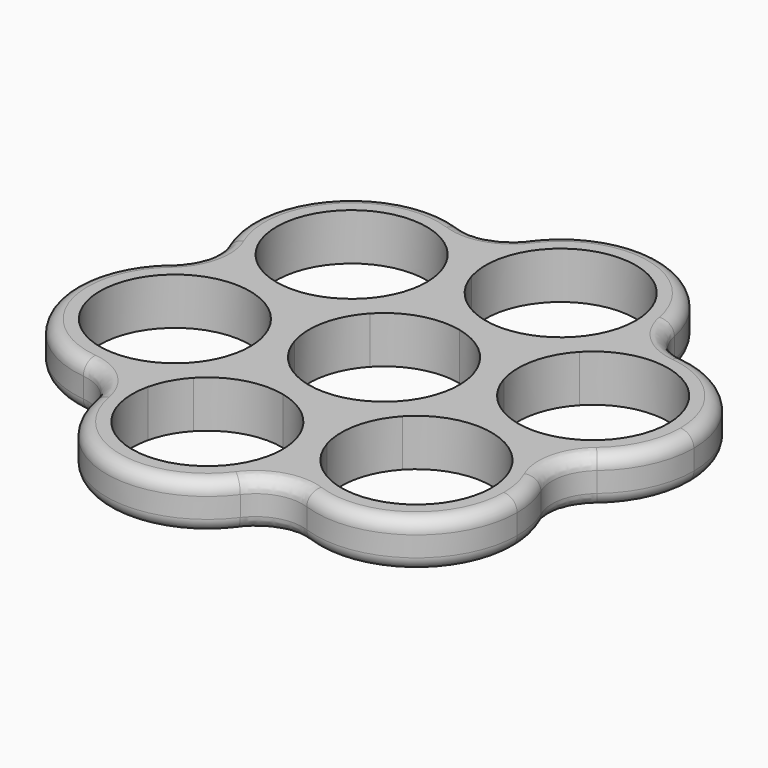
from build123d import *

# Parameters (mm, degrees)
F1_DEPTH = 7.0000002161
F2_R     = 7
F3_R     = 2


with BuildPart() as f1:
    # F0 (on Top) → F1 (new body)
    with BuildSketch(Plane.XY):
        with BuildLine():
            ThreePointArc((-8.4351326883, 21.1270953256), (-9.0738701421, 24.8916615747), (-8.7414061831, 28.6955296448))
            ThreePointArc((-8.7414061831, 28.6955296448), (-8.8125213083, 28.7633007882), (-8.8840787432, 28.8306047437))
            Line((-8.8840787432, 28.8306047437), (-11.4955479594, 26.0358143163))
            ThreePointArc((-11.4955479594, 26.0358143163), (-9.6422177606, 23.7829104816), (-8.4351326883, 21.1270953256))
        make_face()
        with BuildLine():
            ThreePointArc((-26.7547210267, 9.7054702506), (-27.2903065259, 25.5002288171), (-11.4955479594, 26.0358143163))
            Line((-11.4955479594, 26.0358143163), (-8.8840787432, 28.8306047437))
            ThreePointArc((-8.8840787432, 28.8306047437), (-30.0850969532, 28.1116980333), (-29.3661902429, 6.9106798233))
            Line((-29.3661902429, 6.9106798233), (-26.7547210267, 9.7054702506))
        make_face()
        with BuildLine():
            ThreePointArc((-29.221760739, 6.777485003), (-25.4491514925, 7.3668602267), (-21.6499643665, 6.9846026404))
            ThreePointArc((-21.6499643665, 6.9846026404), (-24.3814472006, 8.0090094714), (-26.7547210267, 9.7054702506))
            Line((-26.7547210267, 9.7054702506), (-29.3661902429, 6.9106798233))
            ThreePointArc((-29.3661902429, 6.9106798233), (-29.2941935673, 6.8438459426), (-29.221760739, 6.777485003))
        make_face()
        with BuildLine():
            ThreePointArc((20.4803545559, 21.9180446418), (19.1044639174, 18.3561817107), (16.873825702, 15.2571180229))
            ThreePointArc((16.873825702, 15.2571180229), (19.126729384, 17.1104479973), (21.782544306, 18.3175329549))
            Line((21.782544306, 18.3175329549), (20.6679194058, 21.976526851))
            ThreePointArc((20.6679194058, 21.976526851), (20.5740412295, 21.9475928414), (20.4803545559, 21.9180446418))
        make_face()
        with BuildLine():
            ThreePointArc((28.2954505858, -3.0624705949), (25.417713525, -3.5410497115), (22.5141675883, -3.2585084667))
            ThreePointArc((22.5141675883, -3.2585084667), (26.0937463299, -4.5876287298), (29.221760739, -6.777485003))
            ThreePointArc((29.221760739, -6.777485003), (29.3160098334, -6.7497830698), (29.4100754861, -6.721464491))
            Line((29.4100754861, -6.721464491), (28.2954505858, -3.0624705949))
        make_face()
        with BuildLine():
            Line((20.6679194058, 21.976526851), (21.782544306, 18.3175329549))
            ThreePointArc((21.782544306, 18.3175329549), (31.6906799835, 16.6072719569), (36.2139974459, 7.62753118))
            ThreePointArc((36.2139974459, 7.62753118), (34.0187382228, 0.9758486424), (28.2954505858, -3.0624705949))
            Line((28.2954505858, -3.0624705949), (29.4100754861, -6.721464491))
            ThreePointArc((29.4100754861, -6.721464491), (37.0923407706, -1.3009017563), (40.0389974459, 7.62753118))
            ThreePointArc((40.0389974459, 7.62753118), (33.9674303823, 19.6808745046), (20.6679194058, 21.976526851))
        make_face()
        with BuildLine():
            ThreePointArc((-16.7999026264, -22.9733437214), (-15.7754958852, -20.2418609814), (-14.0790352427, -17.8685872048))
            ThreePointArc((-14.0790352427, -17.8685872048), (-17.0198763972, -20.304032969), (-20.4803545559, -21.9180446418))
            ThreePointArc((-20.4803545559, -21.9180446418), (-20.5034885252, -22.0135177185), (-20.5259967429, -22.1091402527))
            Line((-20.5259967429, -22.1091402527), (-16.7999026264, -22.9733437214))
        make_face()
        with BuildLine():
            Line((8.6982708371, -28.8872066743), (4.9721767206, -28.0230032056))
            ThreePointArc((4.9721767206, -28.0230032056), (-8.438692695, -36.384213137), (-16.7999026264, -22.9733437214))
            Line((-16.7999026264, -22.9733437214), (-20.5259967429, -22.1091402527))
            ThreePointArc((-20.5259967429, -22.1091402527), (-9.3028961638, -40.1103072535), (8.6982708371, -28.8872066743))
        make_face()
        with BuildLine():
            ThreePointArc((8.7414061831, -28.6955296448), (6.3446876438, -25.7230418106), (4.7761388613, -22.2417204526))
            ThreePointArc((4.7761388613, -22.2417204526), (5.1392224822, -23.8519877622), (5.2611370471, -25.4981734635))
            ThreePointArc((5.2611370471, -25.4981734635), (5.188661948, -26.7688291305), (4.9721767206, -28.0230032056))
            Line((4.9721767206, -28.0230032056), (8.6982708371, -28.8872066743))
            ThreePointArc((8.6982708371, -28.8872066743), (8.7201523378, -28.7914387839), (8.7414061831, -28.6955296448))
        make_face()
        with BuildLine():
            ThreePointArc((-8.7414061831, 28.6955296448), (-6.3446876395, 25.7230418037), (-4.7761388565, 22.241720437))
            ThreePointArc((-4.7761388565, 22.241720437), (4.2676772436, 36.5512588974), (17.0888629529, 25.4981734635))
            ThreePointArc((17.0888629529, 25.4981734635), (16.309208527, 21.3972692467), (14.0790346942, 17.8685866178))
            ThreePointArc((14.0790346942, 17.8685866178), (17.0198760578, 20.3040327543), (20.4803545559, 21.9180446418))
            ThreePointArc((20.4803545559, 21.9180446418), (20.8050914792, 23.6950337081), (20.9138629529, 25.4981734635))
            ThreePointArc((20.9138629529, 25.4981734635), (7.5218061981, 40.4117417327), (-8.7414061831, 28.6955296448))
        make_face()
        with BuildLine():
            ThreePointArc((-16.8738251198, -15.2571173998), (-35.7289991793, -10.8839844564), (-22.5141675633, 3.2585084609))
            ThreePointArc((-22.5141675633, 3.2585084609), (-26.0937463186, 4.5876287238), (-29.221760739, 6.777485003))
            ThreePointArc((-29.221760739, 6.777485003), (-39.387993117, -11.9986092201), (-20.4803545559, -21.9180446418))
            ThreePointArc((-20.4803545559, -21.9180446418), (-19.1044637144, -18.3561813358), (-16.8738251198, -15.2571173998))
        make_face()
        with BuildLine():
            ThreePointArc((29.221760739, -6.777485003), (25.4491514951, -7.3668602266), (21.6499643715, -6.9846026416))
            ThreePointArc((21.6499643715, -6.9846026416), (27.874294421, -10.9184609312), (30.300134493, -17.8706422835))
            ThreePointArc((30.300134493, -17.8706422835), (20.7713202626, -28.9237277084), (8.4351327191, -21.1270954265))
            ThreePointArc((8.4351327191, -21.1270954265), (8.9224933228, -23.288528139), (9.0861370471, -25.4981734635))
            ThreePointArc((9.0861370471, -25.4981734635), (8.9997053163, -27.1061167087), (8.7414061831, -28.6955296448))
            ThreePointArc((8.7414061831, -28.6955296448), (25.0091839214, -31.6683943585), (34.125134493, -17.8706422835))
            ThreePointArc((34.125134493, -17.8706422835), (32.8446350978, -11.806377847), (29.221760739, -6.777485003))
        make_face()
        with BuildLine():
            ThreePointArc((-4.125134493, 17.8706422835), (-4.2887782263, 20.0802876682), (-4.7761388565, 22.241720437))
            ThreePointArc((-4.7761388565, 22.241720437), (-6.3446876395, 25.7230418037), (-8.7414061831, 28.6955296448))
            ThreePointArc((-8.7414061831, 28.6955296448), (-9.0738701421, 24.8916615747), (-8.4351326883, 21.1270953256))
            ThreePointArc((-8.4351326883, 21.1270953256), (-6.8665839048, 17.6457739502), (-4.469865357, 14.6732861021))
            ThreePointArc((-4.469865357, 14.6732861021), (-4.2115662238, 16.2626990383), (-4.125134493, 17.8706422835))
        make_face()
        with BuildLine():
            ThreePointArc((-14.9423711999, 3.4656261004), (-18.0703856163, 5.6554823774), (-21.6499643665, 6.9846026404))
            ThreePointArc((-21.6499643665, 6.9846026404), (-25.4491514925, 7.3668602267), (-29.221760739, 6.777485003))
            ThreePointArc((-29.221760739, 6.777485003), (-26.0937463186, 4.5876287238), (-22.5141675633, 3.2585084609))
            ThreePointArc((-22.5141675633, 3.2585084609), (-18.7149804417, 2.8762508769), (-14.9423711999, 3.4656261004))
        make_face()
        with BuildLine():
            ThreePointArc((10.4725058429, 11.2076600017), (13.9329843395, 12.8216718882), (16.873825702, 15.2571180229))
            ThreePointArc((16.873825702, 15.2571180229), (19.1044639174, 18.3561817107), (20.4803545559, 21.9180446418))
            ThreePointArc((20.4803545559, 21.9180446418), (17.0198760578, 20.3040327543), (14.0790346942, 17.8685866178))
            ThreePointArc((14.0790346942, 17.8685866178), (11.8483964806, 14.7695229311), (10.4725058429, 11.2076600017))
        make_face()
        with BuildLine():
            ThreePointArc((29.221760739, -6.777485003), (26.0937463299, -4.5876287298), (22.5141675883, -3.2585084667))
            ThreePointArc((22.5141675883, -3.2585084667), (18.7149804545, -2.8762508765), (14.9423711999, -3.4656261004))
            ThreePointArc((14.9423711999, -3.4656261004), (18.0703856185, -5.6554823786), (21.6499643715, -6.9846026416))
            ThreePointArc((21.6499643715, -6.9846026416), (25.4491514951, -7.3668602266), (29.221760739, -6.777485003))
        make_face()
        with BuildLine():
            ThreePointArc((9.0861370471, -25.4981734635), (8.9224933228, -23.288528139), (8.4351327191, -21.1270954265))
            ThreePointArc((8.4351327191, -21.1270954265), (6.8665839325, -17.6457739952), (4.469865357, -14.6732861021))
            ThreePointArc((4.469865357, -14.6732861021), (4.1374013986, -18.4771541885), (4.7761388613, -22.2417204526))
            ThreePointArc((4.7761388613, -22.2417204526), (6.3446876438, -25.7230418106), (8.7414061831, -28.6955296448))
            ThreePointArc((8.7414061831, -28.6955296448), (8.9997053163, -27.1061167087), (9.0861370471, -25.4981734635))
        make_face()
        with BuildLine():
            ThreePointArc((-20.4803545559, -21.9180446418), (-17.0198763972, -20.304032969), (-14.0790352427, -17.8685872048))
            ThreePointArc((-14.0790352427, -17.8685872048), (-11.8483966718, -14.7695232843), (-10.4725058429, -11.2076600017))
            ThreePointArc((-10.4725058429, -11.2076600017), (-13.9329839791, -12.8216716603), (-16.8738251198, -15.2571173998))
            ThreePointArc((-16.8738251198, -15.2571173998), (-19.1044637144, -18.3561813358), (-20.4803545559, -21.9180446418))
        make_face()
        with BuildLine():
            ThreePointArc((-7.950134493, 17.8706422835), (-8.7297888391, 13.7697382691), (-10.9599624546, 10.2410557558))
            ThreePointArc((-10.9599624546, 10.2410557558), (-8.0191212043, 12.6765016906), (-4.55864289, 14.2905134618))
            ThreePointArc((-4.55864289, 14.2905134618), (-4.5130007031, 14.4816090726), (-4.469865357, 14.6732861021))
            ThreePointArc((-4.469865357, 14.6732861021), (-6.8665839048, 17.6457739502), (-8.4351326883, 21.1270953256))
            ThreePointArc((-8.4351326883, 21.1270953256), (-8.0720490603, 19.5168280009), (-7.950134493, 17.8706422835))
        make_face()
        with BuildLine():
            ThreePointArc((-14.566491603, 3.5801288217), (-11.106013295, 5.1941405889), (-8.1651720485, 7.6295865169))
            Line((-8.1651720328, 7.6295865336), (-10.9599624602, 10.2410557498))
            ThreePointArc((-10.9599624546, 10.2410557558), (-13.1906008618, 7.1419919424), (-14.566491603, 3.5801288217))
        make_face()
        with BuildLine():
            ThreePointArc((-14.566491603, 3.5801288217), (-13.1906008618, 7.1419919424), (-10.9599624546, 10.2410557558))
            ThreePointArc((-10.9599624546, 10.2410557558), (-15.8686814137, 7.1806404901), (-21.6499643665, 6.9846026404))
            ThreePointArc((-21.6499643665, 6.9846026404), (-18.0703856163, 5.6554823774), (-14.9423711999, 3.4656261004))
            ThreePointArc((-14.9423711999, 3.4656261004), (-14.7540564529, 3.5216466124), (-14.566491603, 3.5801288217))
        make_face()
        with BuildLine():
            Line((-10.9599624602, 10.2410557498), (-8.1651720328, 7.6295865336))
            ThreePointArc((-8.1651720485, 7.6295865169), (-5.9345336348, 10.7286503345), (-4.55864289, 14.2905134618))
            ThreePointArc((-4.55864289, 14.2905134618), (-8.0191212043, 12.6765016906), (-10.9599624546, 10.2410557558))
        make_face()
        with BuildLine():
            ThreePointArc((-4.1827632931, 14.4050161831), (-0.4101539781, 14.9943914086), (3.3890332129, 14.6121337895))
            ThreePointArc((3.3890332129, 14.6121337895), (-1.7157236232, 17.3330014704), (-4.7761388565, 22.241720437))
            ThreePointArc((-4.7761388565, 22.241720437), (-4.2887782263, 20.0802876682), (-4.125134493, 17.8706422835))
            ThreePointArc((-4.125134493, 17.8706422835), (-4.2115662238, 16.2626990383), (-4.469865357, 14.6732861021))
            ThreePointArc((-4.469865357, 14.6732861021), (-4.3271927969, 14.5382110033), (-4.1827632931, 14.4050161831))
        make_face()
        with BuildLine():
            ThreePointArc((-4.1827632931, 14.4050161831), (-1.0547489214, 12.2151599295), (2.5248297753, 10.8860396658))
            Line((2.5248297421, 10.8860396735), (3.3890332108, 14.61213379))
            ThreePointArc((3.3890332129, 14.6121337895), (-0.4101539781, 14.9943914086), (-4.1827632931, 14.4050161831))
        make_face()
        with BuildLine():
            Line((3.3890332108, 14.61213379), (2.5248297421, 10.8860396735))
            ThreePointArc((2.5248297753, 10.8860396658), (6.3240169491, 10.5037820554), (10.096626246, 11.0931572804))
            ThreePointArc((10.096626246, 11.0931572804), (6.9686118904, 13.2830135256), (3.3890332129, 14.6121337895))
        make_face()
        with BuildLine():
            ThreePointArc((14.0790346942, 17.8685866178), (9.1703158896, 14.8081716267), (3.3890332129, 14.6121337895))
            ThreePointArc((3.3890332129, 14.6121337895), (6.9686118904, 13.2830135256), (10.096626246, 11.0931572804))
            ThreePointArc((10.096626246, 11.0931572804), (10.284940993, 11.1491777925), (10.4725058429, 11.2076600017))
            ThreePointArc((10.4725058429, 11.2076600017), (11.8483964806, 14.7695229311), (14.0790346942, 17.8685866178))
        make_face()
        with BuildLine():
            ThreePointArc((10.3837283099, 10.8248873614), (12.7804468788, 7.8523994791), (14.3489956646, 4.3710780611))
            ThreePointArc((14.3489956646, 4.3710780611), (14.1529578227, 10.1523611389), (16.873825702, 15.2571180229))
            ThreePointArc((16.873825702, 15.2571180229), (13.9329843395, 12.8216718882), (10.4725058429, 11.2076600017))
            ThreePointArc((10.4725058429, 11.2076600017), (10.426863656, 11.0165643909), (10.3837283099, 10.8248873614))
        make_face()
        with BuildLine():
            ThreePointArc((10.3837283099, 10.8248873614), (10.0512643488, 7.0210193435), (10.6900017742, 3.2564531422))
            Line((10.6900017749, 3.2564531399), (14.348995671, 4.3710780401))
            ThreePointArc((14.3489956646, 4.3710780611), (12.7804468788, 7.8523994791), (10.3837283099, 10.8248873614))
        make_face()
        with BuildLine():
            Line((14.348995671, 4.3710780401), (10.6900017749, 3.2564531399))
            ThreePointArc((10.6900017742, 3.2564531422), (12.2585505608, -0.2248682887), (14.655269136, -3.1973561813))
            ThreePointArc((14.655269136, -3.1973561813), (14.9135682692, -1.6079432452), (15, 0))
            ThreePointArc((15, 0), (14.8363562739, 2.209645337), (14.3489956646, 4.3710780611))
        make_face()
        with BuildLine():
            ThreePointArc((22.5141675883, -3.2585084667), (17.409410861, -0.5376408048), (14.3489956646, 4.3710780611))
            ThreePointArc((14.3489956646, 4.3710780611), (14.8363562739, 2.209645337), (15, 0))
            ThreePointArc((15, 0), (14.9135682692, -1.6079432452), (14.655269136, -3.1973561813))
            ThreePointArc((14.655269136, -3.1973561813), (14.7979416961, -3.3324312802), (14.9423711999, -3.4656261004))
            ThreePointArc((14.9423711999, -3.4656261004), (18.7149804545, -2.8762508765), (22.5141675883, -3.2585084667))
        make_face()
        with BuildLine():
            ThreePointArc((-10.690001784, -3.2564531102), (-10.8860396726, 2.524829746), (-8.1651720485, 7.6295865169))
            ThreePointArc((-8.1651720485, 7.6295865169), (-11.106013295, 5.1941405889), (-14.566491603, 3.5801288217))
            ThreePointArc((-14.566491603, 3.5801288217), (-14.61213379, 3.3890332108), (-14.655269136, 3.1973561813))
            ThreePointArc((-14.655269136, 3.1973561813), (-12.2585505696, 0.2248683029), (-10.690001784, -3.2564531102))
        make_face()
        with BuildLine():
            ThreePointArc((-22.5141675633, 3.2585084609), (-17.4094108622, 0.537640806), (-14.3489956731, -4.3710780333))
            ThreePointArc((-14.3489956731, -4.3710780333), (-14.9877330973, -0.6065118342), (-14.655269136, 3.1973561813))
            ThreePointArc((-14.655269136, 3.1973561813), (-14.7979416961, 3.3324312802), (-14.9423711999, 3.4656261004))
            ThreePointArc((-14.9423711999, 3.4656261004), (-18.7149804417, 2.8762508769), (-22.5141675633, 3.2585084609))
        make_face()
        with BuildLine():
            Line((-14.348995671, -4.3710780401), (-10.6900017749, -3.2564531399))
            ThreePointArc((-10.690001784, -3.2564531102), (-12.2585505696, 0.2248683029), (-14.655269136, 3.1973561813))
            ThreePointArc((-14.655269136, 3.1973561813), (-14.9877330973, -0.6065118342), (-14.3489956731, -4.3710780333))
        make_face()
        with BuildLine():
            ThreePointArc((-10.0389974459, -7.62753118), (-10.2026411728, -5.4178858385), (-10.690001784, -3.2564531102))
            Line((-10.6900017749, -3.2564531399), (-14.348995671, -4.3710780401))
            ThreePointArc((-14.3489956731, -4.3710780333), (-12.7804468864, -7.8523994667), (-10.3837283099, -10.8248873614))
            ThreePointArc((-10.3837283099, -10.8248873614), (-10.1254291767, -9.2354744252), (-10.0389974459, -7.62753118))
        make_face()
        with BuildLine():
            ThreePointArc((-10.3837283099, -10.8248873614), (-12.7804468864, -7.8523994667), (-14.3489956731, -4.3710780333))
            ThreePointArc((-14.3489956731, -4.3710780333), (-13.9859120212, -5.9813454085), (-13.8639974459, -7.62753118))
            ThreePointArc((-13.8639974459, -7.62753118), (-14.6436517147, -11.7284349984), (-16.8738251198, -15.2571173998))
            ThreePointArc((-16.8738251198, -15.2571173998), (-13.9329839791, -12.8216716603), (-10.4725058429, -11.2076600017))
            ThreePointArc((-10.4725058429, -11.2076600017), (-10.426863656, -11.0165643909), (-10.3837283099, -10.8248873614))
        make_face()
        with BuildLine():
            ThreePointArc((-10.096626246, -11.0931572804), (-6.3240169573, -10.5037820556), (-2.5248297912, -10.8860396621))
            ThreePointArc((-2.5248297912, -10.8860396621), (-7.6295865634, -8.165172005), (-10.690001784, -3.2564531102))
            ThreePointArc((-10.690001784, -3.2564531102), (-10.2026411728, -5.4178858385), (-10.0389974459, -7.62753118))
            ThreePointArc((-10.0389974459, -7.62753118), (-10.1254291767, -9.2354744252), (-10.3837283099, -10.8248873614))
            ThreePointArc((-10.3837283099, -10.8248873614), (-10.2410557498, -10.9599624602), (-10.096626246, -11.0931572804))
        make_face()
        with BuildLine():
            Line((-3.3890332108, -14.61213379), (-2.5248297421, -10.8860396735))
            ThreePointArc((-2.5248297912, -10.8860396621), (-6.3240169573, -10.5037820556), (-10.096626246, -11.0931572804))
            ThreePointArc((-10.096626246, -11.0931572804), (-6.96861186, -13.2830135415), (-3.3890331462, -14.612133805))
        make_face()
        with BuildLine():
            ThreePointArc((-14.0790352427, -17.8685872048), (-9.1703162411, -14.8081717337), (-3.3890331462, -14.612133805))
            ThreePointArc((-3.3890331462, -14.612133805), (-6.96861186, -13.2830135415), (-10.096626246, -11.0931572804))
            ThreePointArc((-10.096626246, -11.0931572804), (-10.284940993, -11.1491777925), (-10.4725058429, -11.2076600017))
            ThreePointArc((-10.4725058429, -11.2076600017), (-11.8483966718, -14.7695232843), (-14.0790352427, -17.8685872048))
        make_face()
        with BuildLine():
            ThreePointArc((4.1827632931, -14.4050161831), (1.0547489142, -12.2151599257), (-2.5248297912, -10.8860396621))
            Line((-2.5248297421, -10.8860396735), (-3.3890332108, -14.61213379))
            ThreePointArc((-3.3890331462, -14.612133805), (0.4101540124, -14.9943914077), (4.1827632931, -14.4050161831))
        make_face()
        with BuildLine():
            ThreePointArc((4.1827632931, -14.4050161831), (0.4101540124, -14.9943914077), (-3.3890331462, -14.612133805))
            ThreePointArc((-3.3890331462, -14.612133805), (1.7157236542, -17.3330014993), (4.7761388613, -22.2417204526))
            ThreePointArc((4.7761388613, -22.2417204526), (4.1374013986, -18.4771541885), (4.469865357, -14.6732861021))
            ThreePointArc((4.469865357, -14.6732861021), (4.3271927969, -14.5382110033), (4.1827632931, -14.4050161831))
        make_face()
        with BuildLine():
            ThreePointArc((4.55864289, -14.2905134618), (5.934533619, -10.7286503637), (8.1651720032, -7.6295865653))
            ThreePointArc((8.1651720032, -7.6295865653), (3.256453095, -10.6900017886), (-2.5248297912, -10.8860396621))
            ThreePointArc((-2.5248297912, -10.8860396621), (1.0547489142, -12.2151599257), (4.1827632931, -14.4050161831))
            ThreePointArc((4.1827632931, -14.4050161831), (4.3710780401, -14.348995671), (4.55864289, -14.2905134618))
        make_face()
        with BuildLine():
            ThreePointArc((10.6900017742, 3.2564531422), (11.053085425, 1.6461857692), (11.175, 0))
            ThreePointArc((11.175, 0), (10.3953456445, -4.1009040384), (8.1651720032, -7.6295865653))
            ThreePointArc((8.1651720032, -7.6295865653), (11.106013267, -5.1941406067), (14.566491603, -3.5801288217))
            ThreePointArc((14.566491603, -3.5801288217), (14.61213379, -3.3890332108), (14.655269136, -3.1973561813))
            ThreePointArc((14.655269136, -3.1973561813), (12.2585505608, -0.2248682887), (10.6900017742, 3.2564531422))
        make_face()
        with BuildLine():
            ThreePointArc((14.566491603, -3.5801288217), (13.1906008589, -7.1419919476), (10.9599624465, -10.2410557644))
            ThreePointArc((10.9599624465, -10.2410557644), (15.8686814105, -7.1806404911), (21.6499643715, -6.9846026416))
            ThreePointArc((21.6499643715, -6.9846026416), (18.0703856185, -5.6554823786), (14.9423711999, -3.4656261004))
            ThreePointArc((14.9423711999, -3.4656261004), (14.7540564529, -3.5216466124), (14.566491603, -3.5801288217))
        make_face()
        with BuildLine():
            ThreePointArc((14.566491603, -3.5801288217), (11.106013267, -5.1941406067), (8.1651720032, -7.6295865653))
            Line((8.1651720328, -7.6295865336), (10.9599624602, -10.2410557498))
            ThreePointArc((10.9599624465, -10.2410557644), (13.1906008589, -7.1419919476), (14.566491603, -3.5801288217))
        make_face()
        with BuildLine():
            Line((10.9599624602, -10.2410557498), (8.1651720328, -7.6295865336))
            ThreePointArc((8.1651720032, -7.6295865653), (5.934533619, -10.7286503637), (4.55864289, -14.2905134618))
            ThreePointArc((4.55864289, -14.2905134618), (8.0191211993, -12.6765016937), (10.9599624465, -10.2410557644))
        make_face()
        with BuildLine():
            ThreePointArc((8.4351327191, -21.1270954265), (8.2390948169, -15.3458125527), (10.9599624465, -10.2410557644))
            ThreePointArc((10.9599624465, -10.2410557644), (8.0191211993, -12.6765016937), (4.55864289, -14.2905134618))
            ThreePointArc((4.55864289, -14.2905134618), (4.5130007031, -14.4816090726), (4.469865357, -14.6732861021))
            ThreePointArc((4.469865357, -14.6732861021), (6.8665839325, -17.6457739952), (8.4351327191, -21.1270954265))
        make_face()
        with BuildLine():
            ThreePointArc((-8.1651720485, 7.6295865169), (-3.2564531345, 10.6900017765), (2.5248297753, 10.8860396658))
            ThreePointArc((2.5248297753, 10.8860396658), (-1.0547489214, 12.2151599295), (-4.1827632931, 14.4050161831))
            ThreePointArc((-4.1827632931, 14.4050161831), (-4.3710780401, 14.348995671), (-4.55864289, 14.2905134618))
            ThreePointArc((-4.55864289, 14.2905134618), (-5.9345336348, 10.7286503345), (-8.1651720485, 7.6295865169))
        make_face()
        with BuildLine():
            ThreePointArc((2.5248297753, 10.8860396658), (7.6295865452, 8.165172022), (10.6900017742, 3.2564531422))
            ThreePointArc((10.6900017742, 3.2564531422), (10.0512643488, 7.0210193435), (10.3837283099, 10.8248873614))
            ThreePointArc((10.3837283099, 10.8248873614), (10.2410557498, 10.9599624602), (10.096626246, 11.0931572804))
            ThreePointArc((10.096626246, 11.0931572804), (6.3240169491, 10.5037820554), (2.5248297753, 10.8860396658))
        make_face()
        with BuildLine():
            ThreePointArc((4.469865357, -14.6732861021), (4.5130007031, -14.4816090726), (4.55864289, -14.2905134618))
            ThreePointArc((4.55864289, -14.2905134618), (4.3710780401, -14.348995671), (4.1827632931, -14.4050161831))
            ThreePointArc((4.1827632931, -14.4050161831), (4.3271927969, -14.5382110033), (4.469865357, -14.6732861021))
        make_face()
        with BuildLine():
            ThreePointArc((-10.4725058429, -11.2076600017), (-10.284940993, -11.1491777925), (-10.096626246, -11.0931572804))
            ThreePointArc((-10.096626246, -11.0931572804), (-10.2410557498, -10.9599624602), (-10.3837283099, -10.8248873614))
            ThreePointArc((-10.3837283099, -10.8248873614), (-10.426863656, -11.0165643909), (-10.4725058429, -11.2076600017))
        make_face()
        with BuildLine():
            ThreePointArc((-14.655269136, 3.1973561813), (-14.61213379, 3.3890332108), (-14.566491603, 3.5801288217))
            ThreePointArc((-14.566491603, 3.5801288217), (-14.7540564529, 3.5216466124), (-14.9423711999, 3.4656261004))
            ThreePointArc((-14.9423711999, 3.4656261004), (-14.7979416961, 3.3324312802), (-14.655269136, 3.1973561813))
        make_face()
        with BuildLine():
            ThreePointArc((-4.55864289, 14.2905134618), (-4.3710780401, 14.348995671), (-4.1827632931, 14.4050161831))
            ThreePointArc((-4.1827632931, 14.4050161831), (-4.3271927969, 14.5382110033), (-4.469865357, 14.6732861021))
            ThreePointArc((-4.469865357, 14.6732861021), (-4.5130007031, 14.4816090726), (-4.55864289, 14.2905134618))
        make_face()
        with BuildLine():
            ThreePointArc((10.096626246, 11.0931572804), (10.2410557498, 10.9599624602), (10.3837283099, 10.8248873614))
            ThreePointArc((10.3837283099, 10.8248873614), (10.426863656, 11.0165643909), (10.4725058429, 11.2076600017))
            ThreePointArc((10.4725058429, 11.2076600017), (10.284940993, 11.1491777925), (10.096626246, 11.0931572804))
        make_face()
        with BuildLine():
            ThreePointArc((14.9423711999, -3.4656261004), (14.7979416961, -3.3324312802), (14.655269136, -3.1973561813))
            ThreePointArc((14.655269136, -3.1973561813), (14.61213379, -3.3890332108), (14.566491603, -3.5801288217))
            ThreePointArc((14.566491603, -3.5801288217), (14.7540564529, -3.5216466124), (14.9423711999, -3.4656261004))
        make_face()
    extrude(amount=-F1_DEPTH)

    # F2
    f2_edges = [f1.edges().sort_by_distance(p)[0] for p in [
        (-20.480355, -21.918045, -3.5),
        (8.741406, -28.69553, -3.5),
        (29.221761, -6.777485, -3.5),
        (20.480355, 21.918045, -3.5),
        (-8.741406, 28.69553, -3.5),
        (-29.221761, 6.777485, -3.5),
    ]]
    fillet(f2_edges, radius=F2_R)

    # F3
    f3_edges = [f1.edges().sort_by_distance(p)[0] for p in [
        (-39.387993, -11.998609, 0),
        (-39.387993, -11.998609, -7),
    ]]
    fillet(f3_edges, radius=F3_R)


solid = f1.part
